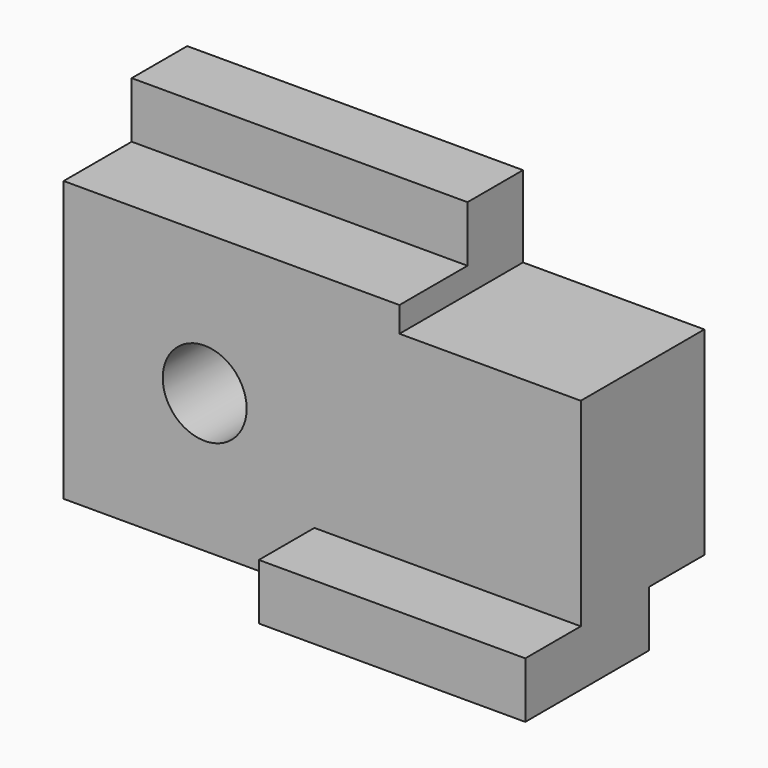
from build123d import *

# Parameters (mm, degrees)
F0_W      = 117.348
F0_H      = 63.5
F1_DEPTH  = 35.052
F2_W      = 117.348
F2_H      = 15.748
F3_DEPTH  = 12.7
F4_W      = 41.148
F4_H      = 15.748
F4_H_2    = 19.304
F5_DEPTH  = 18.4404
F6_W      = 15.748
F6_H      = 12.7
F7_DEPTH  = 117.349
F8_W      = 15.748
F8_H      = 12.7
F9_DEPTH  = 60.452
F10_R     = 9.525
F11_DEPTH = 35.053


with BuildPart() as f1:
    # F0 (on Front) → F1 (new body)
    with BuildSketch(Plane.XZ):
        Rectangle(F0_W, F0_H)
    extrude(amount=F1_DEPTH)

    # F2 (on face) → F3 (join)
    with BuildSketch(Plane.XY.offset(31.75)):
        with Locations((0, -7.874)):
            Rectangle(F2_W, F2_H)
    extrude(amount=F3_DEPTH)

    # F4 (on face) → F5 (cut)
    with BuildSketch(Plane.XY.offset(44.45)):
        with Locations((38.1, -7.874)):
            Rectangle(F4_W, F4_H)
        with Locations((38.1, -25.4)):
            Rectangle(F4_W, F4_H_2)
    extrude(amount=-F5_DEPTH, mode=Mode.SUBTRACT)

    # F6 (on face) → F7 (cut, through all)
    with BuildSketch(Plane.YZ.offset(58.674)):
        with Locations((-7.874, -25.4)):
            Rectangle(F6_W, F6_H)
    extrude(amount=-F7_DEPTH, mode=Mode.SUBTRACT)

    # F8 (on face) → F9 (join)
    with BuildSketch(Plane.YZ.offset(58.674)):
        with Locations((-42.926, -25.4)):
            Rectangle(F8_W, F8_H)
    extrude(amount=-F9_DEPTH)

    # F10 (on face) → F11 (cut, through all)
    with BuildSketch(Plane.XZ.offset(35.052)):
        with Locations((-26.67, -0.254)):
            Circle(F10_R)
    extrude(amount=-F11_DEPTH, mode=Mode.SUBTRACT)


solid = f1.part
